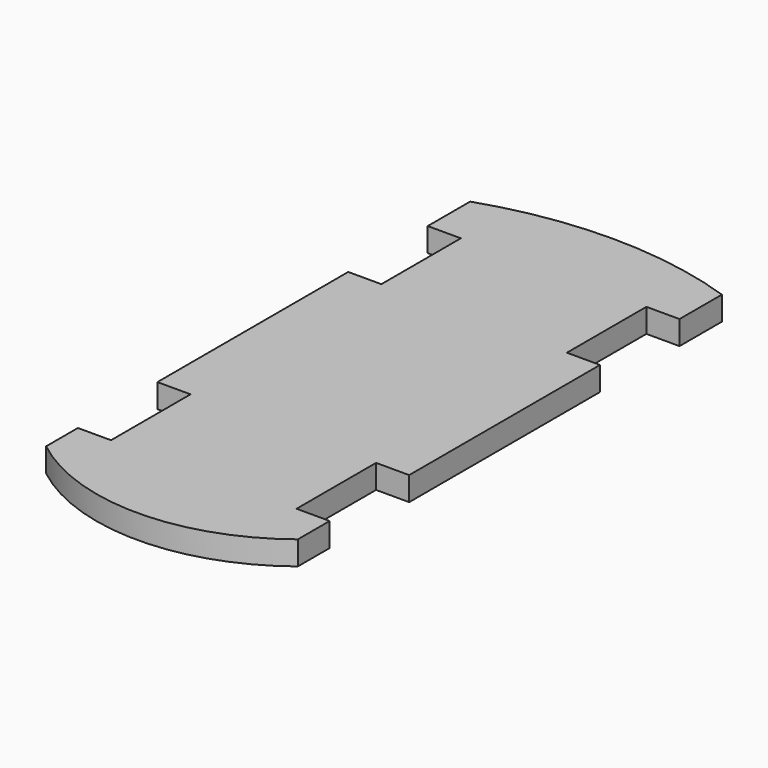
from build123d import *

# Parameters (mm, degrees)
F1_DEPTH = 4.572


with BuildPart() as f1:
    # F0 (on Top) → F1 (new body)
    with BuildSketch(Plane.XY):
        with BuildLine():
            ThreePointArc((-6.593841, 49.071565), (-30.72384, 53.027217), (-54.85384, 49.071565))
            Line((-54.85384, 49.071565), (-54.85384, 38.911565))
            Line((-54.85384, 38.911565), (-48.50384, 38.911565))
            Line((-48.50384, 38.911565), (-48.50384, 19.861565))
            Line((-48.50384, 19.861565), (-54.85384, 19.861565))
            Line((-54.85384, 19.861565), (-54.85384, -25.858435))
            Line((-54.85384, -25.858435), (-48.50384, -25.858435))
            Line((-48.50384, -25.858435), (-48.50384, -44.908435))
            Line((-48.50384, -44.908435), (-54.85384, -44.908435))
            Line((-54.85384, -44.908435), (-54.85384, -52.528435))
            ThreePointArc((-54.85384, -52.528435), (-30.72384, -60.853284), (-6.593841, -52.528435))
            Line((-6.593841, -52.528435), (-6.593841, -44.908435))
            Line((-6.593841, -44.908435), (-12.943841, -44.908435))
            Line((-12.943841, -44.908435), (-12.943841, -25.858435))
            Line((-12.943841, -25.858435), (-6.593841, -25.858435))
            Line((-6.593841, -25.858435), (-6.593841, 19.861565))
            Line((-6.593841, 19.861565), (-12.943841, 19.861565))
            Line((-12.943841, 19.861565), (-12.943841, 38.911565))
            Line((-12.943841, 38.911565), (-6.593841, 38.911565))
            Line((-6.593841, 38.911565), (-6.593841, 49.071565))
        make_face()
    extrude(amount=F1_DEPTH)


solid = f1.part
